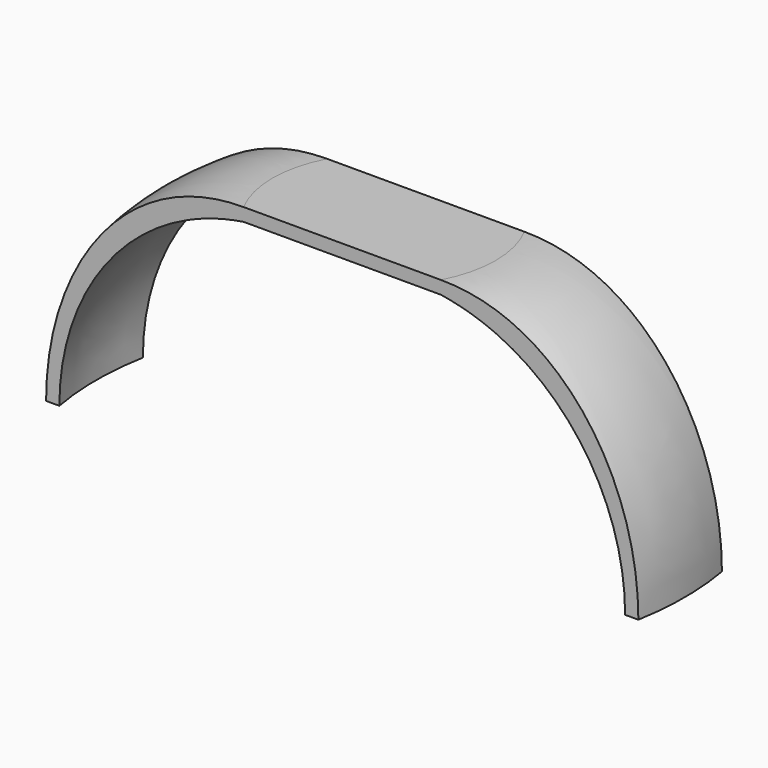
from build123d import *

# Parameters (mm, degrees)
BOX_W     = 300
BOX_H     = 300
BOX_DEPTH = 300


with BuildPart() as part:
    # Sketch → Revolution (revolve)
    with BuildSketch(Plane.XZ):
        with BuildLine():
            Line((0, 36), (0, 34))
            Line((0, 34), (17.1, 34))
            add(Edge.make_bspline(
                [(44.08, 0), (44.08, 29.242706), (17.1, 34)],
                knots=[1.570796, 1.570796, 1.570796, 2.978183, 2.978183, 2.978183], degree=2, weights=[1, 0.762458, 1]))
            Line((44.08, 0), (46.08, 0))
            add(Edge.make_bspline(
                [(46.08, 0), (46.08, 35.999994), (17.1, 36)],
                knots=[4.712389, 4.712389, 4.712389, 6.283185, 6.283185, 6.283185], degree=2, weights=[1, 0.707107, 1]))
            Line((17.1, 36), (0, 36))
        make_face()
    revolve(axis=Axis((0, 0, 0), (0, 0, 1)))

    # Box → Box (cut)
    with BuildSketch(Plane(origin=(-86, -8, 0), x_dir=(1, 0, 0), z_dir=(0, -1, 0))):
        with Locations((150, 150)):
            Rectangle(BOX_W, BOX_H)
    box = extrude(amount=BOX_DEPTH, mode=Mode.SUBTRACT)

    # Mirrored: Box across XZ
    add(box.mirror(Plane.XZ), mode=Mode.SUBTRACT)


solid = part.part
